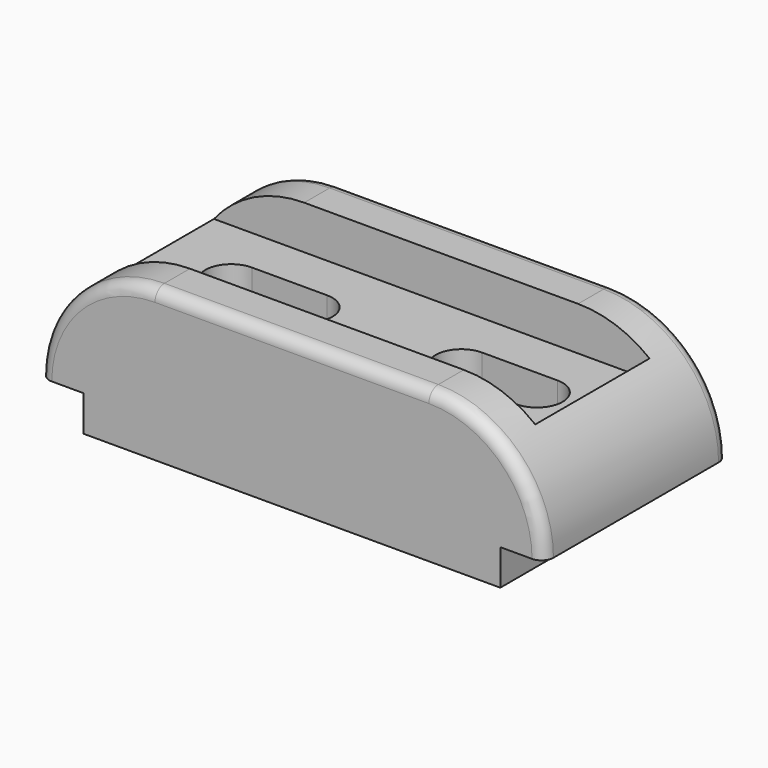
from build123d import *

# Parameters (mm, degrees)
F1_DEPTH = 29
F2_W     = 36
F2_H     = 11
F3_DEPTH = 116.001
F4_R     = 3
F5_W     = 19
F5_H     = 13
F6_DEPTH = 27.001


with BuildPart() as f1:
    # F0 (on Front) → F1 (new body, symmetric)
    with BuildSketch(Plane.XZ):
        with BuildLine():
            Line((-52.5, 0), (0, 0))
            Line((0, 0), (52.5, 0))
            Line((52.5, 0), (52.5, 9))
            Line((52.5, 9), (63.5, 9))
            ThreePointArc((63.5, 9), (55.006097, 29.506097), (34.5, 38))
            Line((34.5, 38), (0, 38))
            Line((0, 38), (-34.5, 38))
            ThreePointArc((-34.5, 38), (-55.006097, 29.506097), (-63.5, 9))
            Line((-63.5, 9), (-52.5, 9))
            Line((-52.5, 9), (-52.5, 0))
        make_face()
    extrude(amount=F1_DEPTH, both=True)

    # F2 (on face) → F3 (cut, through all)
    with BuildSketch(Plane.YZ.offset(52.5)):
        with Locations((0, 32.5)):
            Rectangle(F2_W, F2_H)
    extrude(amount=-F3_DEPTH, mode=Mode.SUBTRACT)

    # F4
    f4_edges = [f1.edges().sort_by_distance(p)[0] for p in [
        (0, 29, 38),
        (0, -29, 38),
    ]]
    fillet(f4_edges, radius=F4_R)

    # F5 (on face) → F6 (cut, through all)
    with BuildSketch(Plane.XY.offset(27)):
        with BuildLine():
            ThreePointArc((-38.5, 6.5), (-45, 0), (-38.5, -6.5))
            Line((-38.5, -6.5), (-38.5, 6.5))
        make_face()
        with Locations((-29, 0)):
            Rectangle(F5_W, F5_H)
        with BuildLine():
            Line((-19.5, 6.5), (-19.5, -6.5))
            ThreePointArc((-19.5, -6.5), (-13, 0), (-19.5, 6.5))
        make_face()
        with BuildLine():
            ThreePointArc((38.5, -6.5), (45, 0), (38.5, 6.5))
            Line((38.5, 6.5), (19.5, 6.5))
            ThreePointArc((19.5, 6.5), (13, 0), (19.5, -6.5))
            Line((19.5, -6.5), (38.5, -6.5))
        make_face()
    extrude(amount=-F6_DEPTH, mode=Mode.SUBTRACT)


solid = f1.part
